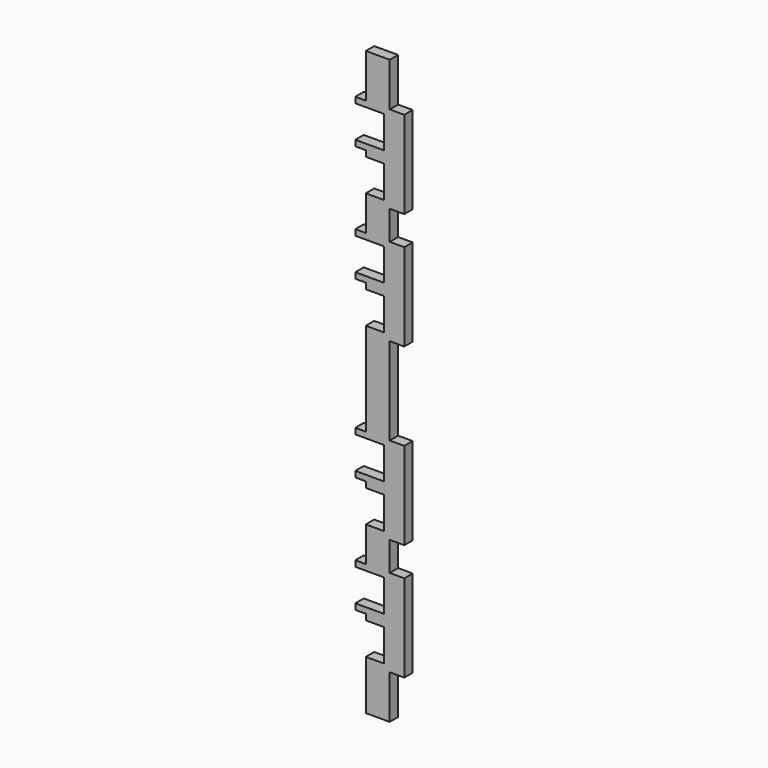
from build123d import *

# Parameters (mm, degrees)
F1_DEPTH = 18


with BuildPart() as f1:
    # F0 (on Front) → F1 (new body)
    with BuildSketch(Plane.XZ):
        Polygon((0, 0), (41, 0), (41, 75), (66, 75), (66, 225), (41, 225), (41, 275), (66, 275), (66, 425), (41, 425), (41, 575), (66, 575), (66, 725), (41, 725), (41, 775), (66, 775), (66, 925), (41, 925), (41, 1000), (0, 1000), (0, 925), (-18, 925), (-18, 915), (31, 915), (31, 860), (-18, 860), (-18, 850), (0, 850), (0, 840), (31, 840), (31, 785), (0, 785), (0, 725), (-18, 725), (-18, 715), (31, 715), (31, 660), (-18, 660), (-18, 650), (0, 650), (0, 640), (31, 640), (31, 585), (0, 585), (0, 425), (-18, 425), (-18, 415), (31, 415), (31, 360), (-18, 360), (-18, 350), (0, 350), (0, 340), (31, 340), (31, 285), (0, 285), (0, 225), (-18, 225), (-18, 215), (31, 215), (31, 160), (-18, 160), (-18, 150), (0, 150), (0, 140), (31, 140), (31, 85), (0, 85), align=None)
    extrude(amount=F1_DEPTH)


solid = f1.part
